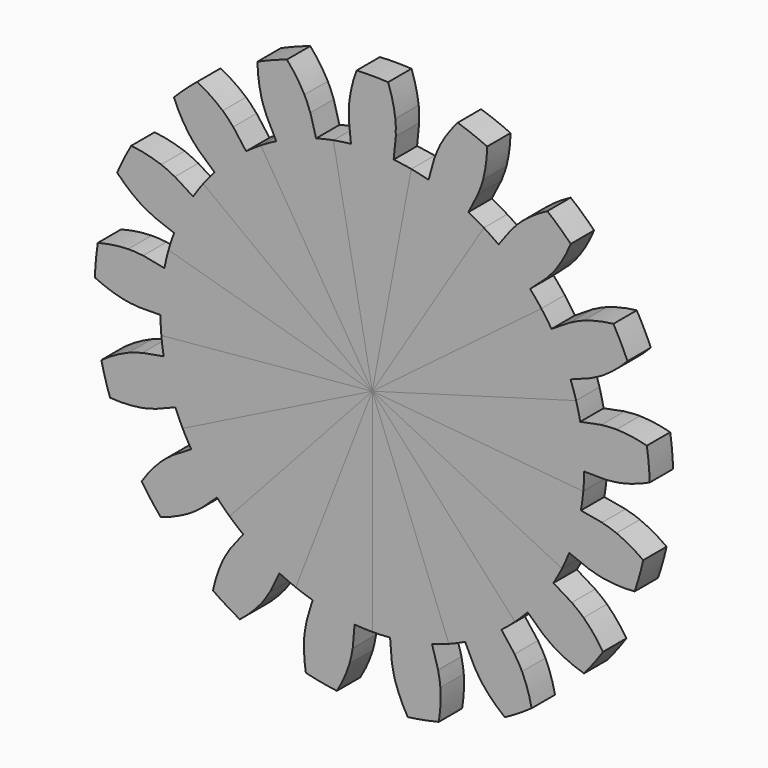
from build123d import *

# Parameters (mm, degrees)
F1_DEPTH = 2.5
F2_COUNT = 17


with BuildPart() as f1:
    # F0 (on Front) → F1 (new body)
    with BuildSketch(Plane.XZ):
        with BuildLine():
            add(Edge.make_bspline(
                [(1.9698503853, 21.1585015882), (1.9614799678, 21.2339576228), (1.9066651101, 21.6680505334), (1.7202627227, 22.600494857), (1.5121873912, 23.2605115124), (1.3515618005, 23.711511565)],
                knots=[0.4278932923, 0.4278932923, 0.4278932923, 0.4278932923, 0.4836226207, 0.7398568687, 1, 1, 1, 1], degree=3))
            ThreePointArc((1.3515618005, 23.711511565), (0, 23.75), (-1.3515618005, 23.711511565))
            add(Edge.make_bspline(
                [(-1.9698503853, 21.1585015882), (-1.9614799678, 21.2339576228), (-1.9066651101, 21.6680505334), (-1.7202627227, 22.600494857), (-1.5121873912, 23.2605115124), (-1.3515618005, 23.711511565)],
                knots=[0.4278932923, 0.4278932923, 0.4278932923, 0.4278932923, 0.4836226207, 0.7398568687, 1, 1, 1, 1], degree=3))
            add(Edge.make_bspline(
                [(-2.0116867505, 19.8668779213), (-2.0075234246, 19.9198882753), (-1.9970140325, 20.0555788063), (-2.0191997214, 20.5307925946), (-1.9940205346, 20.9406171593), (-1.9698503853, 21.1585015882)],
                knots=[0, 0, 0, 0, 0.098889766, 0.2669710685, 0.4278932923, 0.4278932923, 0.4278932923, 0.4278932923], degree=3))
            Line((-2.0116867505, 19.8668779213), (-1.8259699243, 18.0327884376))
            Line((-1.8259699243, 18.0327884376), (-3.3304583642, 17.8163877395))
            Line((-3.3304583642, 17.8163877395), (0, 0))
            Line((0, 0), (3.3304583642, 17.8163877395))
            Line((3.3304583642, 17.8163877395), (1.8259699243, 18.0327884376))
            Line((1.8259699243, 18.0327884376), (2.0116867505, 19.8668779213))
            add(Edge.make_bspline(
                [(2.0116867505, 19.8668779213), (2.0075234246, 19.9198882753), (1.9970140325, 20.0555788063), (2.0191997214, 20.5307925946), (1.9940205346, 20.9406171593), (1.9698503853, 21.1585015882)],
                knots=[0, 0, 0, 0, 0.098889766, 0.2669710685, 0.4278932923, 0.4278932923, 0.4278932923, 0.4278932923], degree=3))
        make_face()
        with BuildLine():
            ThreePointArc((3.3304583642, 17.8163877395), (2.5804835766, 17.9403659247), (1.8259699243, 18.0327884376))
            Line((1.8259699243, 18.0327884376), (3.3304583642, 17.8163877395))
        make_face()
        with BuildLine():
            Line((-3.3304583642, 17.8163877395), (-1.8259699243, 18.0327884376))
            ThreePointArc((-1.8259699243, 18.0327884376), (-2.5804835766, 17.9403659247), (-3.3304583642, 17.8163877395))
        make_face()
    extrude(amount=F1_DEPTH)


with BuildPart() as f2_1:
    # F2: instance of F1
    add(f1.part.rotate(Axis((0, -1.25, 0), (0, 1, 0)), 1 * 360 / F2_COUNT))


with BuildPart() as f2_2:
    # F2: instance of F1
    add(f1.part.rotate(Axis((0, -1.25, 0), (0, 1, 0)), 2 * 360 / F2_COUNT))


with BuildPart() as f2_3:
    # F2: instance of F1
    add(f1.part.rotate(Axis((0, -1.25, 0), (0, 1, 0)), 3 * 360 / F2_COUNT))


with BuildPart() as f2_4:
    # F2: instance of F1
    add(f1.part.rotate(Axis((0, -1.25, 0), (0, 1, 0)), 4 * 360 / F2_COUNT))


with BuildPart() as f2_5:
    # F2: instance of F1
    add(f1.part.rotate(Axis((0, -1.25, 0), (0, 1, 0)), 5 * 360 / F2_COUNT))


with BuildPart() as f2_6:
    # F2: instance of F1
    add(f1.part.rotate(Axis((0, -1.25, 0), (0, 1, 0)), 6 * 360 / F2_COUNT))


with BuildPart() as f2_7:
    # F2: instance of F1
    add(f1.part.rotate(Axis((0, -1.25, 0), (0, 1, 0)), 7 * 360 / F2_COUNT))


with BuildPart() as f2_8:
    # F2: instance of F1
    add(f1.part.rotate(Axis((0, -1.25, 0), (0, 1, 0)), 8 * 360 / F2_COUNT))


with BuildPart() as f2_9:
    # F2: instance of F1
    add(f1.part.rotate(Axis((0, -1.25, 0), (0, 1, 0)), 9 * 360 / F2_COUNT))


with BuildPart() as f2_10:
    # F2: instance of F1
    add(f1.part.rotate(Axis((0, -1.25, 0), (0, 1, 0)), 10 * 360 / F2_COUNT))


with BuildPart() as f2_11:
    # F2: instance of F1
    add(f1.part.rotate(Axis((0, -1.25, 0), (0, 1, 0)), 11 * 360 / F2_COUNT))


with BuildPart() as f2_12:
    # F2: instance of F1
    add(f1.part.rotate(Axis((0, -1.25, 0), (0, 1, 0)), 12 * 360 / F2_COUNT))


with BuildPart() as f2_13:
    # F2: instance of F1
    add(f1.part.rotate(Axis((0, -1.25, 0), (0, 1, 0)), 13 * 360 / F2_COUNT))


with BuildPart() as f2_14:
    # F2: instance of F1
    add(f1.part.rotate(Axis((0, -1.25, 0), (0, 1, 0)), 14 * 360 / F2_COUNT))


with BuildPart() as f2_15:
    # F2: instance of F1
    add(f1.part.rotate(Axis((0, -1.25, 0), (0, 1, 0)), 15 * 360 / F2_COUNT))


with BuildPart() as f2_16:
    # F2: instance of F1
    add(f1.part.rotate(Axis((0, -1.25, 0), (0, 1, 0)), 16 * 360 / F2_COUNT))


solid = Compound([f1.part, f2_1.part, f2_2.part, f2_3.part, f2_4.part, f2_5.part, f2_6.part, f2_7.part, f2_8.part, f2_9.part, f2_10.part, f2_11.part, f2_12.part, f2_13.part, f2_14.part, f2_15.part, f2_16.part])
